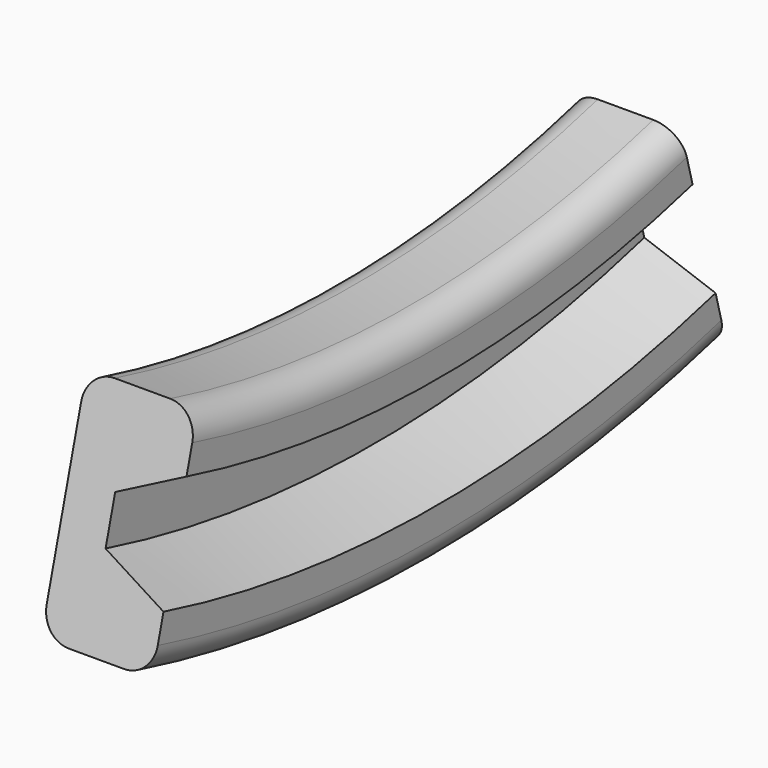
from build123d import *

# Parameters (mm, degrees)
F1_ANGLE = 30


with BuildPart() as f1:
    # F0 (on Front) → F1 (revolve, symmetric)
    with BuildSketch(Plane.XZ) as f1_sk:
        with BuildLine():
            Line((-36.445543, 37.056317), (-49.145543, 37.056317))
            ThreePointArc((-49.145543, 37.056317), (-53.635671, 35.196445), (-55.495543, 30.706317))
            Line((-55.495543, 30.706317), (-55.495543, -7.393194))
            ThreePointArc((-55.495543, -7.393194), (-53.635671, -11.883322), (-49.145543, -13.743194))
            Line((-49.145543, -13.743194), (-36.445543, -13.743194))
            ThreePointArc((-36.445543, -13.743194), (-31.955415, -11.883322), (-30.095543, -7.393194))
            Line((-30.095543, -7.393194), (-30.095543, -1.043439))
            Line((-30.095543, -1.043439), (-44.867806, 6.342409))
            Line((-44.867806, 6.342409), (-44.867806, 11.656297))
            Line((-44.867806, 11.656297), (-44.867806, 16.970185))
            Line((-44.867806, 16.970185), (-30.095543, 24.356317))
            Line((-30.095543, 24.356317), (-30.095543, 30.706317))
            ThreePointArc((-30.095543, 30.706317), (-31.955415, 35.196445), (-36.445543, 37.056317))
        make_face()
    revolve(axis=Axis((-47.507189, 0, 303.756317), (-1, 0, 0)), revolution_arc=F1_ANGLE / 2)
    revolve(f1_sk.sketch, axis=Axis((-47.507189, 0, 303.756317), (1, 0, 0)), revolution_arc=F1_ANGLE / 2)


solid = f1.part
